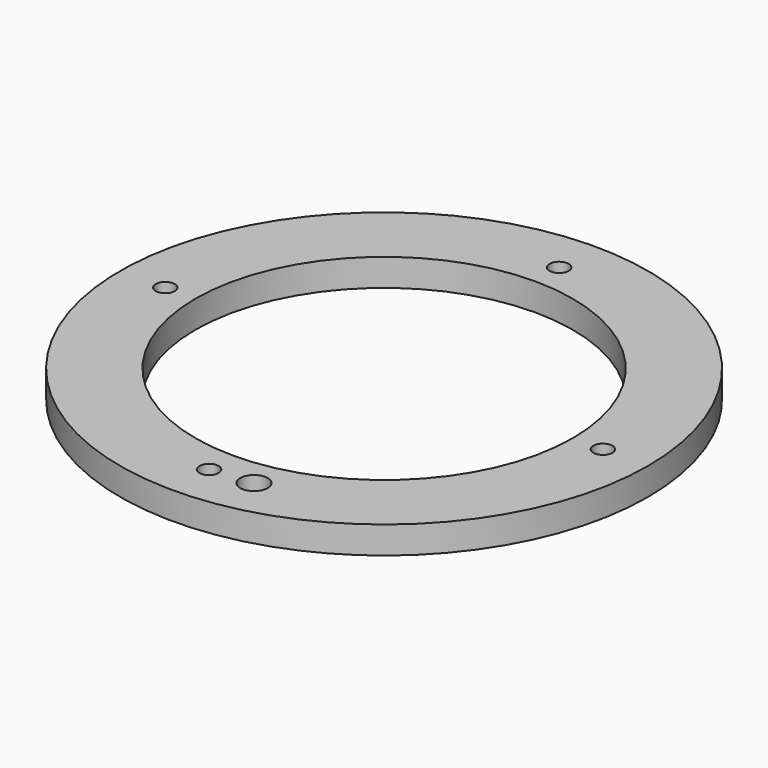
from build123d import *

# Parameters (mm, degrees)
F0_R     = 96.5
F0_R_2   = 3.5
F0_R_3   = 5
F0_R_4   = 69
F1_DEPTH = 10


with BuildPart() as f1:
    # F0 (on Top) → F1 (new body)
    with BuildSketch(Plane.XY):
        Circle(F0_R)
        with Locations((0, -80)):
            Circle(F0_R_2, mode=Mode.SUBTRACT)
        with Locations((15.26472, -78.530175)):
            Circle(F0_R_3, mode=Mode.SUBTRACT)
        with Locations((-80, 0)):
            Circle(F0_R_2, mode=Mode.SUBTRACT)
        Circle(F0_R_4, mode=Mode.SUBTRACT)
        with Locations((80, 0)):
            Circle(F0_R_2, mode=Mode.SUBTRACT)
        with Locations((0, 80)):
            Circle(F0_R_2, mode=Mode.SUBTRACT)
    extrude(amount=F1_DEPTH)


solid = f1.part
